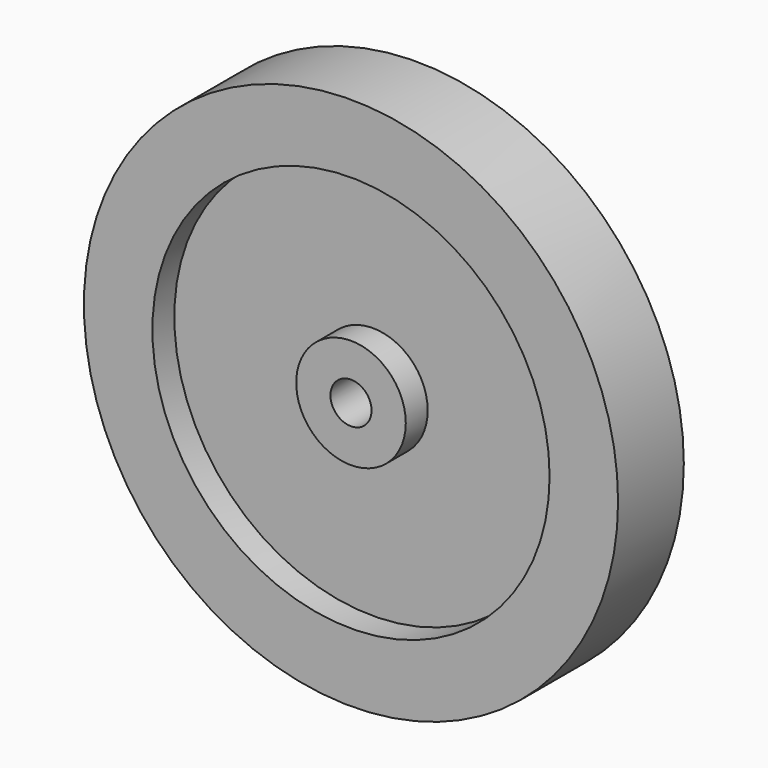
from build123d import *

# Parameters (mm, degrees)
F0_R     = 4.000005
F0_R_2   = 1.499997
F1_DEPTH = 2.999994
F2_DEPTH = 2.999994
F0_R_3   = 14.499971
F3_DEPTH = 1.000001
F4_DEPTH = 1.000001
F0_R_4   = 19.499961
F5_DEPTH = 2.999994
F6_DEPTH = 2.999994


with BuildPart() as f1:
    # F0 (on Front) → F1 (new body)
    with BuildSketch(Plane.XZ):
        Circle(F0_R)
        Circle(F0_R_2, mode=Mode.SUBTRACT)
    extrude(amount=F1_DEPTH)

    # F0 (on Front) → F2 (join)
    with BuildSketch(Plane.XZ):
        Circle(F0_R)
        Circle(F0_R_2, mode=Mode.SUBTRACT)
    extrude(amount=-F2_DEPTH)

    # F0 (on Front) → F3 (join)
    with BuildSketch(Plane.XZ):
        Circle(F0_R_3)
        Circle(F0_R, mode=Mode.SUBTRACT)
    extrude(amount=F3_DEPTH)

    # F0 (on Front) → F4 (join)
    with BuildSketch(Plane.XZ):
        Circle(F0_R_3)
        Circle(F0_R, mode=Mode.SUBTRACT)
    extrude(amount=-F4_DEPTH)

    # F0 (on Front) → F5 (join)
    with BuildSketch(Plane.XZ):
        Circle(F0_R_4)
        Circle(F0_R_3, mode=Mode.SUBTRACT)
    extrude(amount=F5_DEPTH)

    # F0 (on Front) → F6 (join)
    with BuildSketch(Plane.XZ):
        Circle(F0_R_4)
        Circle(F0_R_3, mode=Mode.SUBTRACT)
    extrude(amount=-F6_DEPTH)


solid = f1.part
